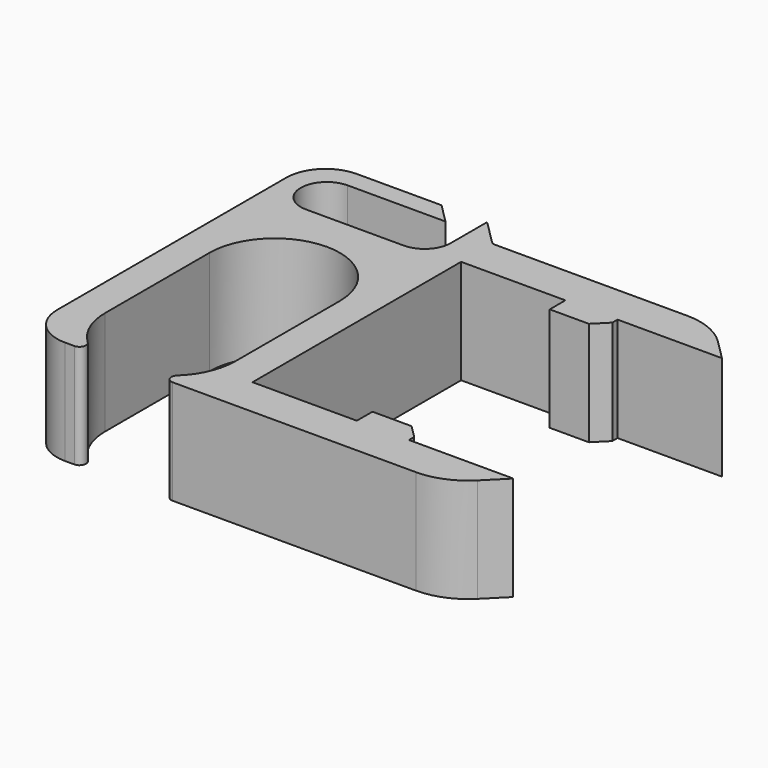
from build123d import *

# Parameters (mm, degrees)
PAD_DEPTH    = 8
PAD001_DEPTH = 8
FILLET_R     = 3
FILLET001_R  = 0.5
CHAMFER_SIZE = 2.99
FILLET002_R  = 5
POCKET_DEPTH = 8.001
FILLET003_R  = 2


with BuildPart() as part:
    # Sketch → Pad (new body)
    with BuildSketch(Plane.XY):
        with BuildLine():
            Line((0, 0), (0, 28))
            Line((0, 28), (13, 28))
            Line((13, 28), (15, 26))
            Line((15, 26), (35, 26))
            Line((35, 26), (35, 23))
            Line((35, 23), (15, 23))
            Line((15, 23), (15, 3))
            Line((15, 3), (35, 3))
            Line((35, 3), (35, 0))
            Line((9.679449, 0), (35, 0))
            ThreePointArc((9.679449, 0), (11.736582, 1.844557), (12.5, 4.5))
            Line((12.5, 14.5), (12.5, 4.5))
            ThreePointArc((12.5, 14.5), (7.5, 19.5), (2.5, 14.5))
            Line((2.5, 4.5), (2.5, 14.5))
            ThreePointArc((2.5, 4.5), (3.263418, 1.844557), (5.320551, 0))
            Line((0, 0), (5.320551, 0))
        make_face()
    extrude(amount=PAD_DEPTH)

    # Sketch001 (on Face18 of Pad) → Pad001 (join)
    with BuildSketch(Plane.XY.offset(8)):
        Polygon((23, 23), (27, 23), (27, 22.5), (26, 21.5), (23, 21.5), align=None)
        Polygon((23, 3), (27, 3), (27, 3.5), (26, 4.5), (23, 4.5), align=None)
    extrude(amount=-PAD001_DEPTH)

    # Fillet
    fillet_edges = [part.edges().sort_by_distance(p)[0] for p in [
        (0, 0, 4),
        (0, 28, 4),
    ]]
    fillet(fillet_edges, radius=FILLET_R)

    # Fillet001
    fillet001_edges = [part.edges().sort_by_distance(p)[0] for p in [
        (15, 26, 4),
        (13, 28, 4),
        (5.320551, 0, 4),
        (9.679449, 0, 4),
    ]]
    fillet(fillet001_edges, radius=FILLET001_R)

    # Chamfer
    chamfer_edges = [part.edges().sort_by_distance(p)[0] for p in [
        (35, 26, 4),
        (35, 0, 4),
    ]]
    chamfer(chamfer_edges, length=CHAMFER_SIZE)

    # Fillet002
    fillet002_edges = [part.edges().sort_by_distance(p)[0] for p in [
        (32.01, 26, 4),
        (32.01, 0, 4),
    ]]
    fillet(fillet002_edges, radius=FILLET002_R)

    # Sketch002 (on Face32 of Fillet002) → Pocket (cut, through all)
    with BuildSketch(Plane.XY.offset(8)):
        with BuildLine():
            Line((9.5, 28), (11, 26.5))
            Line((11, 26.5), (3.5, 26.5))
            ThreePointArc((3.5, 26.5), (1.5, 24.5), (3.5, 22.5))
            Line((3.5, 22.5), (13, 22.5))
            Line((13, 22.5), (13, 28))
            Line((9.5, 28), (13, 28))
        make_face()
    extrude(amount=-POCKET_DEPTH, mode=Mode.SUBTRACT)

    # Fillet003
    fillet003_edges = [part.edges().sort_by_distance(p)[0] for p in [
        (13, 22.5, 4),
    ]]
    fillet(fillet003_edges, radius=FILLET003_R)


solid = part.part
